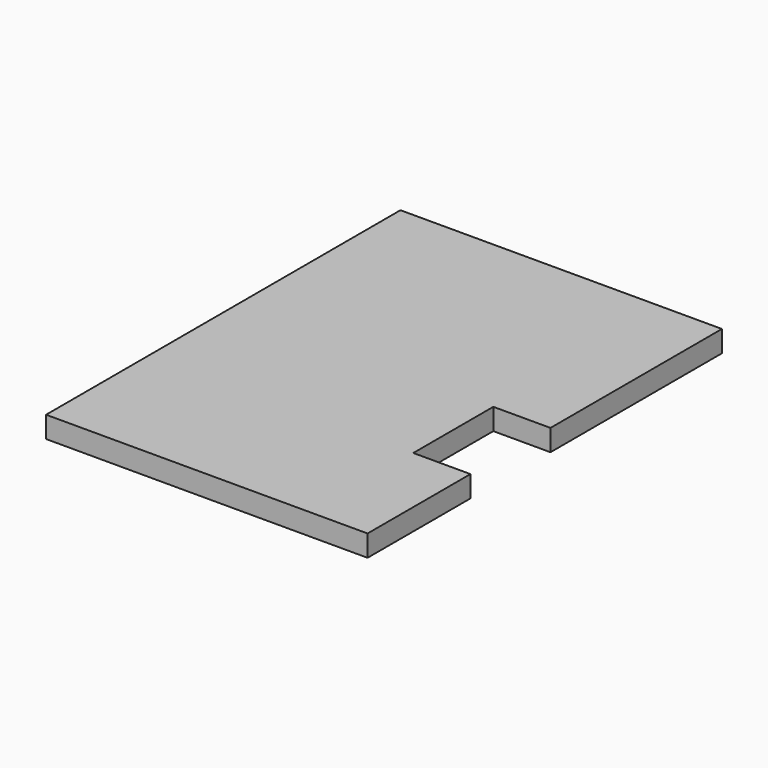
from build123d import *

# Parameters (mm, degrees)
F0_W     = 4500
F0_H     = 6200
F1_DEPTH = 150
F2_W     = 800
F2_H     = 1400
F3_DEPTH = 150


with BuildPart() as f1:
    # F0 (on Top) → F1 (new body, symmetric)
    with BuildSketch(Plane.XY):
        with Locations((-125, 0)):
            Rectangle(F0_W, F0_H)
    extrude(amount=F1_DEPTH, both=True)

    # F2 (on Top) → F3 (cut, symmetric)
    with BuildSketch(Plane.XY):
        with Locations((1725, -600)):
            Rectangle(F2_W, F2_H)
    extrude(amount=F3_DEPTH, both=True, mode=Mode.SUBTRACT)


solid = f1.part
